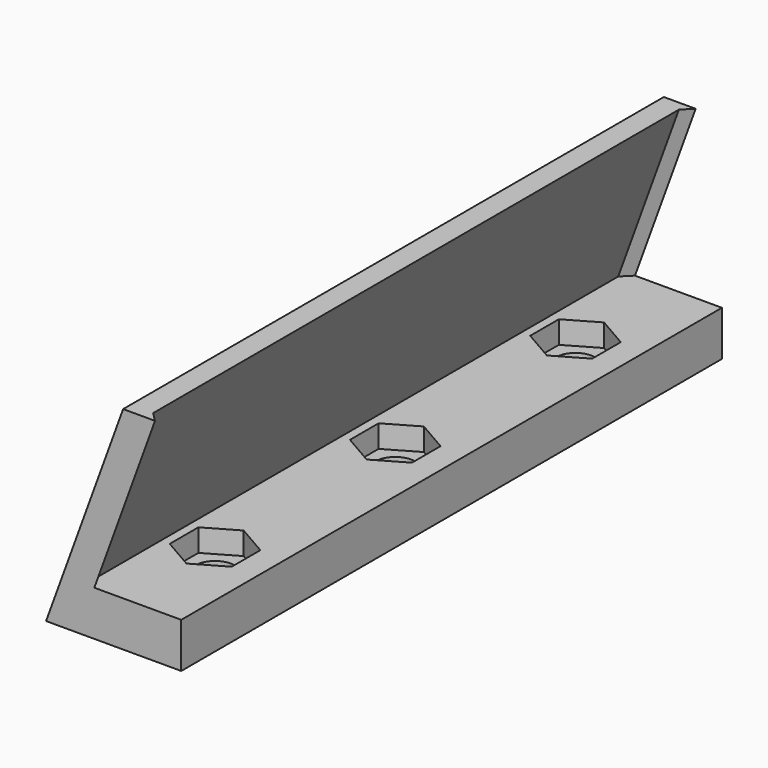
from build123d import *

# Parameters (mm, degrees)
F3_DEPTH = 4
F0_R     = 1.75
F4_DEPTH = 2


with BuildPart() as f2:
    # F2: sweep along a path in F1
    with BuildLine(Plane.XZ) as f2_path:
        Line((0, 0), (6.840403, 18.793852))
    # F0 (on Top) → F2 (sweep)
    with BuildSketch(Plane.XY):
        Polygon((-17.171573, 33.579285), (-20, 33.579285), (-20, -26.420715), (-17.171573, -26.420715), (-18, -25.592288), (-18, 32.750857), align=None)
    sweep(path=f2_path.line)

    # F0 (on Top) → F3 (join)
    with BuildSketch(Plane.XY):
        Polygon((-8, 33.579285), (-17.171573, 33.579285), (-18, 32.750857), (-18, -25.592288), (-17.171573, -26.420715), (-8, -26.420715), align=None)
        Polygon((-13, -13.245289), (-10.25, -14.833002), (-10.25, -18.008429), (-13, -19.596142), (-15.75, -18.008429), (-15.75, -14.833002), align=None, mode=Mode.SUBTRACT)
        Polygon((-13, 6.754711), (-10.25, 5.166998), (-10.25, 1.991571), (-13, 0.403858), (-15.75, 1.991571), (-15.75, 5.166998), align=None, mode=Mode.SUBTRACT)
        Polygon((-13, 26.754711), (-10.25, 25.166998), (-10.25, 21.991571), (-13, 20.403858), (-15.75, 21.991571), (-15.75, 25.166998), align=None, mode=Mode.SUBTRACT)
    extrude(amount=F3_DEPTH)

    # F0 (on Top) → F4 (join)
    with BuildSketch(Plane.XY):
        Polygon((-10.25, 21.991571), (-10.25, 25.166998), (-13, 26.754711), (-15.75, 25.166998), (-15.75, 21.991571), (-13, 20.403858), align=None)
        with Locations((-13, 23.579285)):
            Circle(F0_R, mode=Mode.SUBTRACT)
        Polygon((-10.25, 1.991571), (-10.25, 5.166998), (-13, 6.754711), (-15.75, 5.166998), (-15.75, 1.991571), (-13, 0.403858), align=None)
        with Locations((-13, 3.579285)):
            Circle(F0_R, mode=Mode.SUBTRACT)
        Polygon((-10.25, -18.008429), (-10.25, -14.833002), (-13, -13.245289), (-15.75, -14.833002), (-15.75, -18.008429), (-13, -19.596142), align=None)
        with Locations((-13, -16.420715)):
            Circle(F0_R, mode=Mode.SUBTRACT)
    extrude(amount=F4_DEPTH)


solid = f2.part
